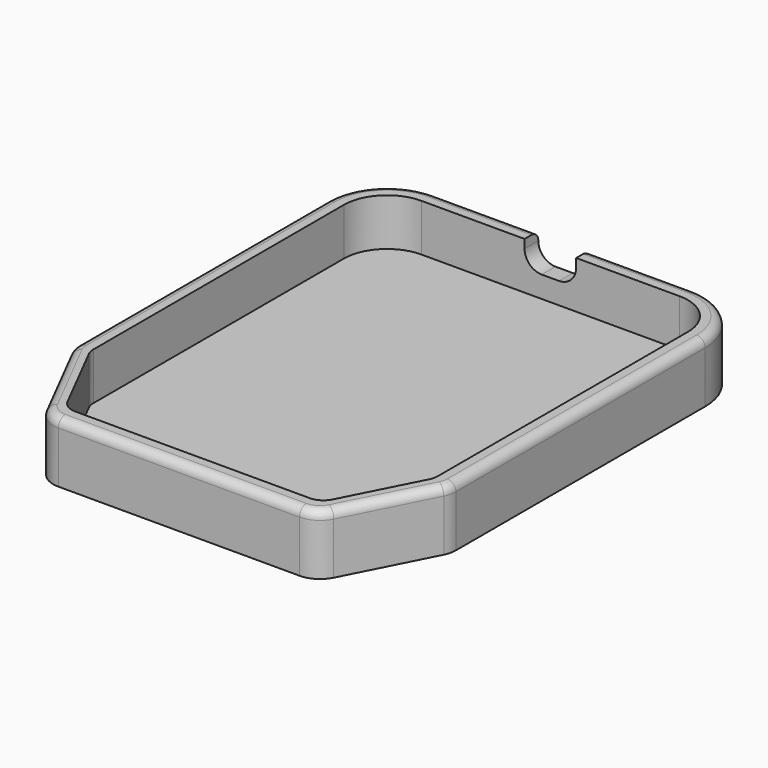
from build123d import *

# Parameters (mm, degrees)
BOX006_W               = 6
BOX006_H               = 30
BOX006_DEPTH           = 10
FILLET007_R            = 2
BOX002_W               = 10
BOX002_H               = 100
BOX002_DEPTH           = 10
BOX002_PLACEMENT_ANGLE = -27
BOX001_W               = 10
BOX001_H               = 100
BOX001_DEPTH           = 10
BOX001_PLACEMENT_ANGLE = 27
BOX_W                  = 40
BOX_H                  = 52
BOX_DEPTH              = 10
FILLET_R               = 5
FILLET001_R            = 2
FILLET002_R            = 2
BOX005_W               = 10
BOX005_H               = 100
BOX005_DEPTH           = 10
BOX005_PLACEMENT_ANGLE = 27
BOX004_W               = 10
BOX004_H               = 100
BOX004_DEPTH           = 10
BOX004_PLACEMENT_ANGLE = -27
BOX003_W               = 44
BOX003_H               = 56
BOX003_DEPTH           = 7
FILLET003_R            = 7
FILLET004_R            = 3
FILLET005_R            = 3
FILLET006_R            = 1


with BuildPart() as fillet007:
    # Box006 → Box006 (new body)
    with BuildSketch(Plane(origin=(17, 30, 0), x_dir=(1, 0, 0), z_dir=(0, 0, 1))):
        with Locations((3, 15)):
            Rectangle(BOX006_W, BOX006_H)
    extrude(amount=BOX006_DEPTH)

    # Fillet007
    fillet007_edges = [fillet007.edges().sort_by_distance(p)[0] for p in [
        (17, 45, 0),
        (23, 45, 0),
    ]]
    fillet(fillet007_edges, radius=FILLET007_R)


with BuildPart() as fillet007_1:
    # Fillet007 placement: moved
    add(fillet007.part.moved(Location((0, 0, 4))))


with BuildPart() as cube002:
    # Box002 → Box002 (new body)
    with BuildSketch(Plane.XY):
        with Locations((5, 50)):
            Rectangle(BOX002_W, BOX002_H)
    extrude(amount=BOX002_DEPTH)


with BuildPart() as cube002_1:
    # Box002 placement: moved
    add(cube002.part.moved(Location((30, -9.5, 0))).rotate(Axis((30, -9.5, 0), (0, 0, 1)), BOX002_PLACEMENT_ANGLE))


with BuildPart() as cube001:
    # Box001 → Box001 (new body)
    with BuildSketch(Plane.XY):
        with Locations((5, 50)):
            Rectangle(BOX001_W, BOX001_H)
    extrude(amount=BOX001_DEPTH)


with BuildPart() as cube001_1:
    # Box001 placement: moved
    add(cube001.part.moved(Location((-1, -10, 0))).rotate(Axis((-1, -10, 0), (0, 0, 1)), BOX001_PLACEMENT_ANGLE))


with BuildPart() as gps_profile:
    # Box → Box (new body)
    with BuildSketch(Plane.XY):
        with Locations((20, 26)):
            Rectangle(BOX_W, BOX_H)
    extrude(amount=BOX_DEPTH)

    # Fillet
    fillet_edges = [gps_profile.edges().sort_by_distance(p)[0] for p in [
        (0, 52, 5),
        (40, 52, 5),
    ]]
    fillet(fillet_edges, radius=FILLET_R)

    # Cut: cut Cube001
    add(cube001_1.part, mode=Mode.SUBTRACT)

    # Cut001: cut Cube002
    add(cube002_1.part, mode=Mode.SUBTRACT)

    # Fillet001
    fillet001_edges = [gps_profile.edges().sort_by_distance(p)[0] for p in [
        (5.128008, 0, 5),
        (34.840492, 0, 5),
    ]]
    fillet(fillet001_edges, radius=FILLET001_R)

    # Fillet002
    fillet002_edges = [gps_profile.edges().sort_by_distance(p)[0] for p in [
        (40, 10.126105, 5),
        (0, 10.064282, 5),
    ]]
    fillet(fillet002_edges, radius=FILLET002_R)


with BuildPart() as gps_profile_1:
    # Fillet002 placement: moved
    add(gps_profile.part.moved(Location((0, 0, 1.5))))


with BuildPart() as cube005:
    # Box005 → Box005 (new body)
    with BuildSketch(Plane.XY):
        with Locations((5, 50)):
            Rectangle(BOX005_W, BOX005_H)
    extrude(amount=BOX005_DEPTH)


with BuildPart() as cube005_1:
    # Box005 placement: moved
    add(cube005.part.moved(Location((-3, -10, 0))).rotate(Axis((-3, -10, 0), (0, 0, 1)), BOX005_PLACEMENT_ANGLE))


with BuildPart() as cube004:
    # Box004 → Box004 (new body)
    with BuildSketch(Plane.XY):
        with Locations((5, 50)):
            Rectangle(BOX004_W, BOX004_H)
    extrude(amount=BOX004_DEPTH)


with BuildPart() as cube004_1:
    # Box004 placement: moved
    add(cube004.part.moved(Location((30, -13.5, 0))).rotate(Axis((30, -13.5, 0), (0, 0, 1)), BOX004_PLACEMENT_ANGLE))


with BuildPart() as gps_mount:
    # Box003 → Box003 (new body)
    with BuildSketch(Plane(origin=(-2, -2, 0), x_dir=(1, 0, 0), z_dir=(0, 0, 1))):
        with Locations((22, 28)):
            Rectangle(BOX003_W, BOX003_H)
    extrude(amount=BOX003_DEPTH)

    # Fillet003
    fillet003_edges = [gps_mount.edges().sort_by_distance(p)[0] for p in [
        (-2, 54, 3.5),
        (42, 54, 3.5),
    ]]
    fillet(fillet003_edges, radius=FILLET003_R)

    # Cut002: cut Cube004
    add(cube004_1.part, mode=Mode.SUBTRACT)

    # Cut003: cut Cube005
    add(cube005_1.part, mode=Mode.SUBTRACT)

    # Fillet004
    fillet004_edges = [gps_mount.edges().sort_by_distance(p)[0] for p in [
        (4.147059, -2, 3.5),
        (35.859543, -2, 3.5),
    ]]
    fillet(fillet004_edges, radius=FILLET004_R)

    # Fillet005
    fillet005_edges = [gps_mount.edges().sort_by_distance(p)[0] for p in [
        (42, 10.051326, 3.5),
        (-2, 10.064282, 3.5),
    ]]
    fillet(fillet005_edges, radius=FILLET005_R)

    # Cut004: cut GPS Profile
    add(gps_profile_1.part, mode=Mode.SUBTRACT)

    # Fillet006
    fillet006_edges = [gps_mount.edges().sort_by_distance(p)[0] for p in [
        (39.18359, 4.52381, 7),
        (41.91711, 10.071226, 7),
        (35.588636, -1.55792, 7),
        (42, 28.885781, 7),
        (20.003301, -2, 7),
        (39.949747, 51.949747, 7),
        (4.417965, -1.55792, 7),
        (20, 54, 7),
        (0.819711, 4.530288, 7),
        (0.050253, 51.949747, 7),
        (-1.91711, 10.084182, 7),
        (-2, 28.892259, 7),
    ]]
    fillet(fillet006_edges, radius=FILLET006_R)

    # Cut005: cut Fillet007
    add(fillet007_1.part, mode=Mode.SUBTRACT)


solid = gps_mount.part
